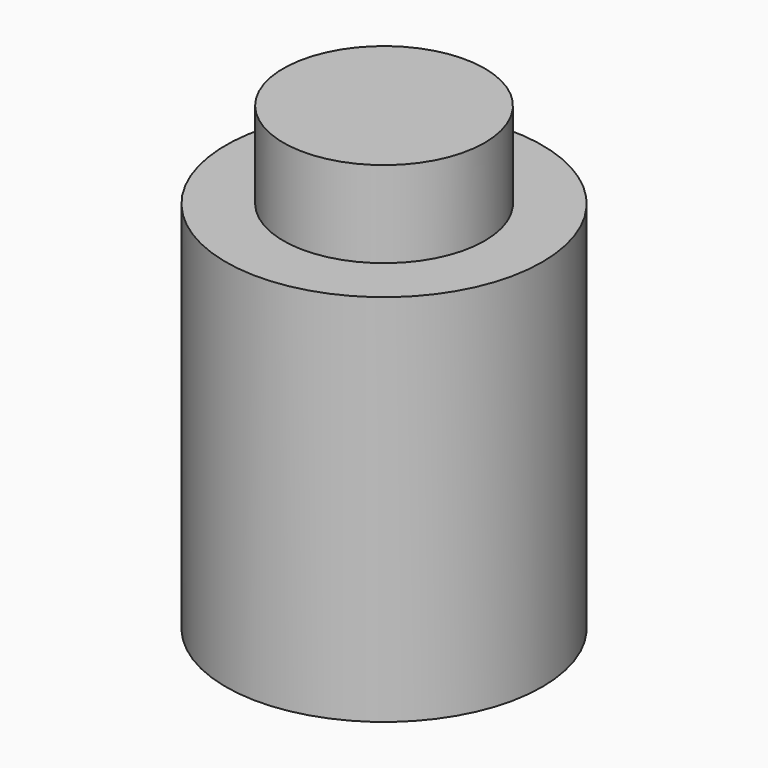
from build123d import *

# Parameters (mm, degrees)
SKETCH_R     = 27.5
PAD_DEPTH    = 35
SKETCH001_R  = 17.5
PAD001_DEPTH = 45
SKETCH002_R  = 27.5
PAD002_DEPTH = 65


with BuildPart() as body:
    # Sketch → Pad (new body)
    with BuildSketch(Plane.XY):
        Circle(SKETCH_R)
    extrude(amount=PAD_DEPTH)

    # Sketch001 (on Face3 of Pad) → Pad001 (join)
    with BuildSketch(Plane.XY.offset(35)):
        Circle(SKETCH001_R)
    extrude(amount=PAD001_DEPTH)


with BuildPart() as body001:
    # Sketch002 → Pad002 (new body)
    with BuildSketch(Plane.XY):
        Circle(SKETCH002_R)
    extrude(amount=PAD002_DEPTH)


solid = Compound([body.part, body001.part])
